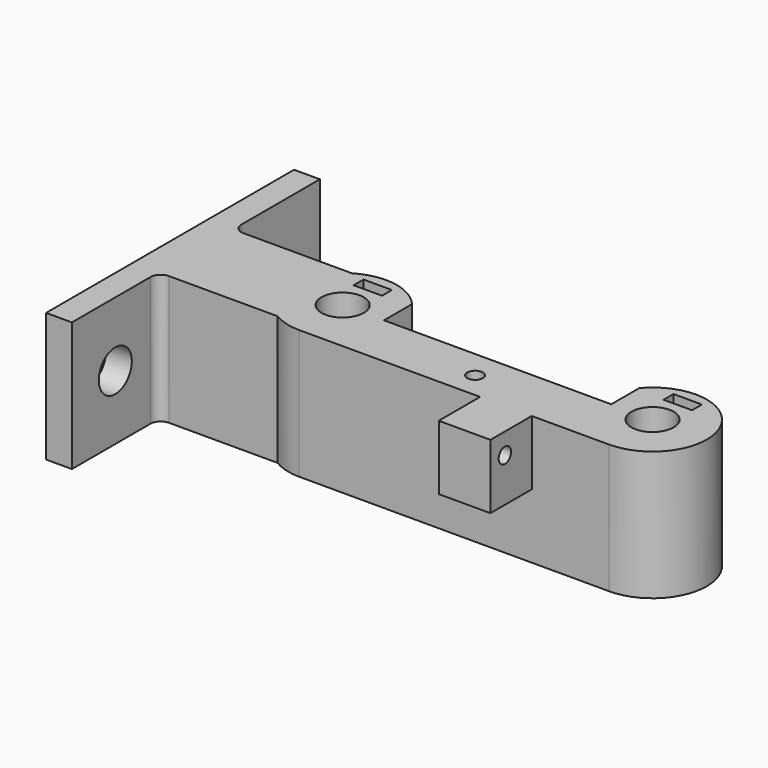
from build123d import *

# Parameters (mm, degrees)
SKETCH005_R          = 4.1
PAD004_DEPTH         = 25
SKETCH010_W          = 44
SKETCH010_H          = 50
POCKET003_DEPTH      = 25
PAD008_DEPTH         = 25
SKETCH018_W          = 10
SKETCH018_H          = 12.5
SKETCH018_R          = 1.5
PAD009_DEPTH         = 10
SKETCH019_R          = 1.5
POCKET009_DEPTH      = 0.001
POCKET009_DEPTH_BACK = 25.001
SKETCH020_W          = 5.5
SKETCH020_H          = 2.4
POCKET010_DEPTH      = 0.001
POCKET010_DEPTH_BACK = 25.001
SKETCH021_R          = 1.5
POCKET011_DEPTH      = 30.001
SKETCH043_R          = 4
POCKET027_DEPTH      = 22.9093269132
FILLET_R             = 2


with BuildPart() as part:
    # Sketch005 → Pad004 (new body)
    with BuildSketch(Plane.XY):
        with BuildLine():
            ThreePointArc((21, 0), (3.0753787975, 7.4246212025), (10.5, -10.5))
            Line((10.5, -10.5), (70.5, -10.5))
            ThreePointArc((70.5, -10.5), (77.9246212025, 7.4246212025), (60, 0))
            Line((21, 0), (60, 0))
        make_face()
        with Locations((10.5, 0)):
            Circle(SKETCH005_R, mode=Mode.SUBTRACT)
        with Locations((70.5, 0)):
            Circle(SKETCH005_R, mode=Mode.SUBTRACT)
    extrude(amount=PAD004_DEPTH)

    # Sketch010 → Pocket003 (cut)
    with BuildSketch(Plane.XY):
        with Locations((40.5, 25)):
            Rectangle(SKETCH010_W, SKETCH010_H)
    extrude(amount=POCKET003_DEPTH, mode=Mode.SUBTRACT)

    # Sketch017 → Pad008 (join)
    with BuildSketch(Plane.XY):
        with BuildLine():
            Line((5.0916730868, 9), (-17.9083269132, 9))
            Line((-17.9083269132, 30), (-17.9083269132, 9))
            Line((-22.9083269132, 30), (-17.9083269132, 30))
            Line((-22.9083269132, -30), (-22.9083269132, 30))
            Line((-17.9083269132, -30), (-22.9083269132, -30))
            Line((-17.9083269132, -9), (-17.9083269132, -30))
            Line((-17.9083269132, -9), (5.0916730868, -9))
            ThreePointArc((5.0916730868, 9), (0, 0), (5.0916730868, -9))
        make_face()
    extrude(amount=PAD008_DEPTH)

    # Sketch018 → Pad009 (join)
    with BuildSketch(Plane.YZ.offset(45.51)):
        with Locations((-15.5, 18.75)):
            Rectangle(SKETCH018_W, SKETCH018_H)
        with Locations((-17, 20.95)):
            Circle(SKETCH018_R, mode=Mode.SUBTRACT)
    extrude(amount=PAD009_DEPTH)

    # Sketch019 → Pocket009 (cut, two sides)
    with BuildSketch(Plane.XY) as pocket009_sk:
        with Locations((40.5, -5.45)):
            Circle(SKETCH019_R)
    extrude(amount=-POCKET009_DEPTH, mode=Mode.SUBTRACT)
    extrude(pocket009_sk.sketch, amount=POCKET009_DEPTH_BACK, mode=Mode.SUBTRACT)

    # Sketch020 → Pocket010 (cut, two sides)
    with BuildSketch(Plane.XY) as pocket010_sk:
        with Locations((10.5, 7.3)):
            Rectangle(SKETCH020_W, SKETCH020_H)
        with Locations((70.5, 7.3)):
            Rectangle(SKETCH020_W, SKETCH020_H)
    extrude(amount=-POCKET010_DEPTH, mode=Mode.SUBTRACT)
    extrude(pocket010_sk.sketch, amount=POCKET010_DEPTH_BACK, mode=Mode.SUBTRACT)

    # Sketch021 → Pocket011 (cut, through all)
    with BuildSketch(Plane.XZ):
        with Locations((10.5, 12.5)):
            Circle(SKETCH021_R)
        with Locations((70.5, 12.5)):
            Circle(SKETCH021_R)
    extrude(amount=-POCKET011_DEPTH, mode=Mode.SUBTRACT)

    # Sketch043 → Pocket027 (cut, through all)
    with BuildSketch(Plane.YZ):
        with Locations((-19.5, 12.5)):
            Circle(SKETCH043_R)
        with Locations((19.5, 12.5)):
            Circle(SKETCH043_R)
    extrude(amount=-POCKET027_DEPTH, mode=Mode.SUBTRACT)

    # Fillet
    fillet_edges = [part.edges().sort_by_distance(p)[0] for p in [
        (-17.908327, 9, 12.5),
        (-17.908327, -9, 12.5),
    ]]
    fillet(fillet_edges, radius=FILLET_R)


with BuildPart() as part_1:
    # Body004 placement: moved
    add(part.part.moved(Location((0, -36, 0))))


solid = part_1.part
